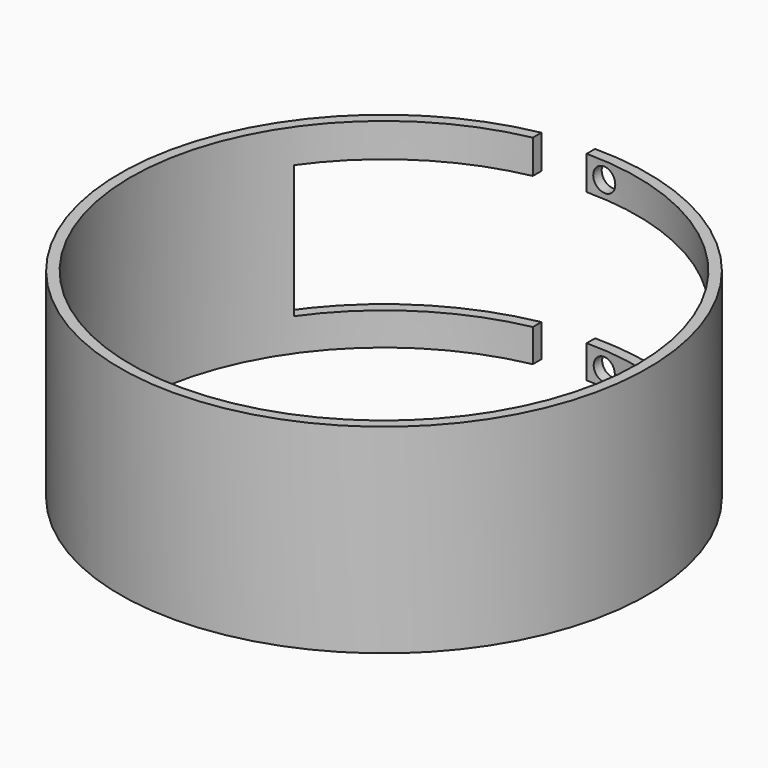
from build123d import *

# Parameters (mm, degrees)
F0_R          = 39.6875
F0_R_2        = 38.1
F1_DEPTH      = 30
F2_W          = 25.0000006067
F2_H          = 20
F3_DEPTH      = 37.846
F3_DEPTH_BACK = 26.416
F4_W          = 36.5361310542
F4_H          = 63.4360015392
F5_DEPTH      = 7.5
F6_R          = 1.7228830897
F6_R_2        = 2.0395757716
F7_DEPTH      = 25.4
F7_DEPTH_BACK = 13.462
F8_R          = 1.7580369287
F8_R_2        = 1.6852602443
F9_DEPTH      = 50


with BuildPart() as f1:
    # F0 (on Top) → F1 (new body)
    with BuildSketch(Plane.XY):
        Circle(F0_R)
        Circle(F0_R_2, mode=Mode.SUBTRACT)
    extrude(amount=F1_DEPTH)

    # F2 (on Right) → F3 (cut, two sides)
    with BuildSketch(Plane.YZ) as f3_sk:
        with Locations((34.4710433856, 14.9242004845)):
            Rectangle(F2_W, F2_H)
    extrude(amount=-F3_DEPTH, mode=Mode.SUBTRACT)
    extrude(f3_sk.sketch, amount=F3_DEPTH_BACK, mode=Mode.SUBTRACT)

    # F4 (on Right) → F5 (cut)
    with BuildSketch(Plane.YZ):
        with Locations((49.4740214199, 27.9371961951)):
            Rectangle(F4_W, F4_H)
    extrude(amount=-F5_DEPTH, mode=Mode.SUBTRACT)

    # F6 (on Front) → F7 (cut, two sides)
    with BuildSketch(Plane.XZ) as f7_sk:
        with Locations((-17.5434835255, -25.1583587378)):
            Circle(F6_R)
        with Locations((-17.5434835255, 0)):
            Circle(F6_R_2)
    extrude(amount=-F7_DEPTH, mode=Mode.SUBTRACT)
    extrude(f7_sk.sketch, amount=F7_DEPTH_BACK, mode=Mode.SUBTRACT)

    # F8 (on Front) → F9 (cut)
    with BuildSketch(Plane.XZ):
        with Locations((2.758965129, 27.4874716997)):
            Circle(F8_R)
        with Locations((2.758965129, 2.3502300028)):
            Circle(F8_R_2)
    extrude(amount=-F9_DEPTH, mode=Mode.SUBTRACT)


solid = f1.part
